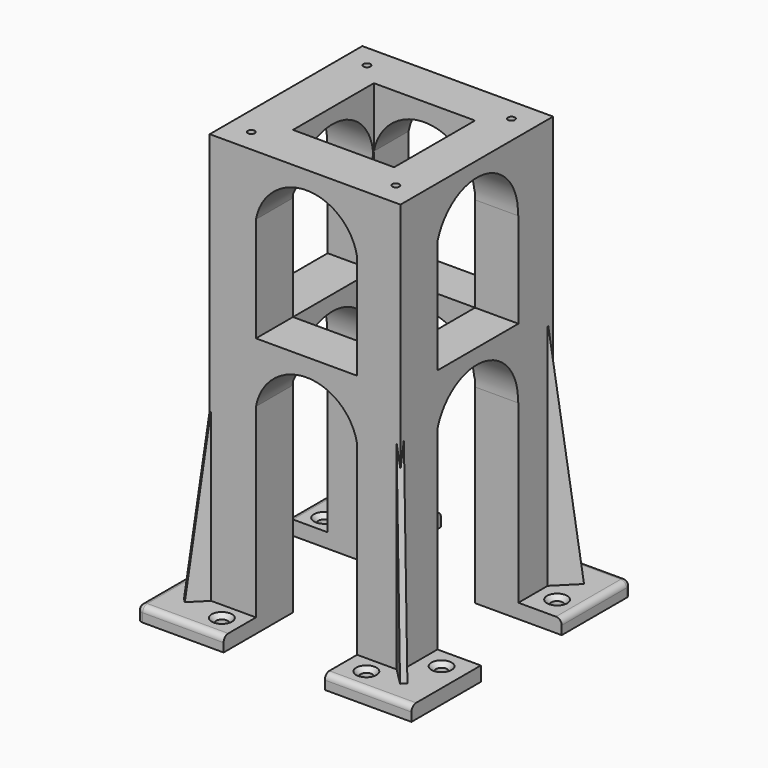
from build123d import *

# Parameters (mm, degrees)
CYLINDER058_R             = 1.2
CYLINDER058_DEPTH         = 40
CYLINDER059_R             = 1.2
CYLINDER059_DEPTH         = 40
CYLINDER060_R             = 1.2
CYLINDER060_DEPTH         = 40
CYLINDER057_R             = 1.2
CYLINDER057_DEPTH         = 40
BOX086_W                  = 35
BOX086_H                  = 35
BOX086_DEPTH              = 200
CYLINDER050_R             = 17.8
CYLINDER050_DEPTH         = 83
CYLINDER049_R             = 17.8
CYLINDER049_DEPTH         = 80
BOX081_W                  = 66
BOX081_H                  = 66
BOX081_DEPTH              = 24
BOX078_W                  = 16
BOX078_H                  = 15
BOX078_DEPTH              = 78
BOX083_W                  = 15
BOX083_H                  = 16
BOX083_DEPTH              = 78
BOX084_W                  = 16
BOX084_H                  = 16
BOX084_DEPTH              = 78
BOX082_W                  = 15
BOX082_H                  = 15
BOX082_DEPTH              = 78
BOX077_W                  = 35
BOX077_H                  = 74
BOX077_DEPTH              = 100
BOX076_W                  = 35
BOX076_H                  = 74
BOX076_DEPTH              = 100
CYLINDER045_R             = 1.2
CYLINDER045_DEPTH         = 10
CYLINDER046_R             = 1.2
CYLINDER046_DEPTH         = 10
CYLINDER047_R             = 1.2
CYLINDER047_DEPTH         = 10
CYLINDER044_R             = 1.2
CYLINDER044_DEPTH         = 10
CYLINDER037_R             = 2
CYLINDER037_DEPTH         = 10
CYLINDER036_R             = 2
CYLINDER036_DEPTH         = 10
BOX065_W                  = 5
BOX065_H                  = 10
BOX065_DEPTH              = 150
BOX065_PLACEMENT_ANGLE    = 7
BOX064_W                  = 2
BOX064_H                  = 10
BOX064_DEPTH              = 80
CUT048_PLACEMENT_ANGLE    = 45
BOX063_W                  = 30
BOX063_H                  = 30
BOX063_DEPTH              = 5
CHAMFER021_SIZE           = 1.5
CHAMFER022_SIZE           = 1.5
FILLET184_R               = 2
FILLET185_R               = 2
FILLET185_PLACEMENT_ANGLE = 90
CYLINDER039_R             = 2
CYLINDER039_DEPTH         = 10
CYLINDER038_R             = 2
CYLINDER038_DEPTH         = 10
BOX068_W                  = 5
BOX068_H                  = 10
BOX068_DEPTH              = 150
BOX068_PLACEMENT_ANGLE    = 7
BOX067_W                  = 2
BOX067_H                  = 10
BOX067_DEPTH              = 80
CUT051_PLACEMENT_ANGLE    = 45
BOX066_W                  = 30
BOX066_H                  = 30
BOX066_DEPTH              = 5
CHAMFER023_SIZE           = 1.5
CHAMFER024_SIZE           = 1.5
FILLET186_R               = 2
CYLINDER043_R             = 2
CYLINDER043_DEPTH         = 10
CYLINDER042_R             = 2
CYLINDER042_DEPTH         = 10
BOX074_W                  = 5
BOX074_H                  = 10
BOX074_DEPTH              = 150
BOX074_PLACEMENT_ANGLE    = 7
BOX073_W                  = 2
BOX073_H                  = 10
BOX073_DEPTH              = 80
CUT057_PLACEMENT_ANGLE    = 45
BOX072_W                  = 30
BOX072_H                  = 30
BOX072_DEPTH              = 5
CHAMFER027_SIZE           = 1.5
CHAMFER028_SIZE           = 1.5
FILLET025_R               = 2
FILLET026_R               = 2
FILLET026_PLACEMENT_ANGLE = 90
BOX075_W                  = 60
BOX075_H                  = 60
BOX075_DEPTH              = 10
CYLINDER041_R             = 2
CYLINDER041_DEPTH         = 10
CYLINDER040_R             = 2
CYLINDER040_DEPTH         = 10
BOX071_W                  = 5
BOX071_H                  = 10
BOX071_DEPTH              = 150
BOX071_PLACEMENT_ANGLE    = 7
BOX070_W                  = 2
BOX070_H                  = 10
BOX070_DEPTH              = 80
CUT054_PLACEMENT_ANGLE    = 45
BOX069_W                  = 30
BOX069_H                  = 30
BOX069_DEPTH              = 5
CHAMFER025_SIZE           = 1.5
CHAMFER026_SIZE           = 1.5
FILLET023_R               = 2
FILLET024_R               = 2
FILLET024_PLACEMENT_ANGLE = 180
CYLINDER035_R             = 2
CYLINDER035_DEPTH         = 10
CYLINDER034_R             = 2
CYLINDER034_DEPTH         = 10
BOX062_W                  = 5
BOX062_H                  = 10
BOX062_DEPTH              = 150
BOX062_PLACEMENT_ANGLE    = 7
BOX061_W                  = 2
BOX061_H                  = 10
BOX061_DEPTH              = 80
CUT045_PLACEMENT_ANGLE    = 45
BOX060_W                  = 30
BOX060_H                  = 30
BOX060_DEPTH              = 5
CHAMFER019_SIZE           = 1.5
CHAMFER020_SIZE           = 1.5
FILLET018_R               = 2
FILLET183_R               = 2
BOX059_W                  = 51
BOX059_H                  = 51
BOX059_DEPTH              = 10
BOX058_W                  = 35
BOX058_H                  = 100
BOX058_DEPTH              = 89
BOX057_W                  = 80
BOX057_H                  = 35
BOX057_DEPTH              = 89
BOX056_W                  = 35
BOX056_H                  = 35
BOX056_DEPTH              = 89
BOX055_W                  = 50
BOX055_H                  = 50
BOX055_DEPTH              = 8
BOX054_W                  = 66
BOX054_H                  = 66
BOX054_DEPTH              = 85
CYLINDER052_R             = 17.8
CYLINDER052_DEPTH         = 83
CYLINDER051_R             = 17.8
CYLINDER051_DEPTH         = 80
BOX085_W                  = 66
BOX085_H                  = 66
BOX085_DEPTH              = 24


with BuildPart() as cilindro058:
    # Cylinder058 → Cylinder058 (new body)
    with BuildSketch(Plane(origin=(145, 25, 130), x_dir=(1, 0, 0), z_dir=(0, 0, 1))):
        Circle(CYLINDER058_R)
    extrude(amount=CYLINDER058_DEPTH)


with BuildPart() as cilindro059:
    # Cylinder059 → Cylinder059 (new body)
    with BuildSketch(Plane(origin=(95, 25, 130), x_dir=(1, 0, 0), z_dir=(0, 0, 1))):
        Circle(CYLINDER059_R)
    extrude(amount=CYLINDER059_DEPTH)


with BuildPart() as cilindro060:
    # Cylinder060 → Cylinder060 (new body)
    with BuildSketch(Plane(origin=(145, -25, 130), x_dir=(1, 0, 0), z_dir=(0, 0, 1))):
        Circle(CYLINDER060_R)
    extrude(amount=CYLINDER060_DEPTH)


with BuildPart() as cilindro057:
    # Cylinder057 → Cylinder057 (new body)
    with BuildSketch(Plane(origin=(95, -25, 130), x_dir=(1, 0, 0), z_dir=(0, 0, 1))):
        Circle(CYLINDER057_R)
    extrude(amount=CYLINDER057_DEPTH)


with BuildPart() as cubo086:
    # Box086 → Box086 (new body)
    with BuildSketch(Plane(origin=(103, -17, 0), x_dir=(1, 0, 0), z_dir=(0, 0, 1))):
        with Locations((17.5, 17.5)):
            Rectangle(BOX086_W, BOX086_H)
    extrude(amount=BOX086_DEPTH)


with BuildPart() as cilindro050:
    # Cylinder050 → Cylinder050 (new body)
    with BuildSketch(Plane(origin=(76.5, 0, 124), x_dir=(0, 0, -1), z_dir=(1, 0, 0))):
        Circle(CYLINDER050_R)
    extrude(amount=CYLINDER050_DEPTH)


with BuildPart() as cilindro049:
    # Cylinder049 → Cylinder049 (new body)
    with BuildSketch(Plane(origin=(120.5, 39, 123), x_dir=(1, 0, 0), z_dir=(0, -1, 0))):
        Circle(CYLINDER049_R)
    extrude(amount=CYLINDER049_DEPTH)


with BuildPart() as cut070:
    # Box081 → Box081 (new body)
    with BuildSketch(Plane(origin=(87, -33, 123), x_dir=(1, 0, 0), z_dir=(0, 0, 1))):
        with Locations((33, 33)):
            Rectangle(BOX081_W, BOX081_H)
    extrude(amount=BOX081_DEPTH)

    # Cut069: cut Cilindro049
    add(cilindro049.part, mode=Mode.SUBTRACT)

    # Cut070: cut Cilindro050
    add(cilindro050.part, mode=Mode.SUBTRACT)


with BuildPart() as cubo078:
    # Box078 → Box078 (new body)
    with BuildSketch(Plane(origin=(87, 18, 66), x_dir=(1, 0, 0), z_dir=(0, 0, 1))):
        with Locations((8, 7.5)):
            Rectangle(BOX078_W, BOX078_H)
    extrude(amount=BOX078_DEPTH)


with BuildPart() as cubo083:
    # Box083 → Box083 (new body)
    with BuildSketch(Plane(origin=(138, -33, 66), x_dir=(1, 0, 0), z_dir=(0, 0, 1))):
        with Locations((7.5, 8)):
            Rectangle(BOX083_W, BOX083_H)
    extrude(amount=BOX083_DEPTH)


with BuildPart() as cubo084:
    # Box084 → Box084 (new body)
    with BuildSketch(Plane(origin=(87, -33, 66), x_dir=(1, 0, 0), z_dir=(0, 0, 1))):
        with Locations((8, 8)):
            Rectangle(BOX084_W, BOX084_H)
    extrude(amount=BOX084_DEPTH)


with BuildPart() as cubo082:
    # Box082 → Box082 (new body)
    with BuildSketch(Plane(origin=(138, 18, 66), x_dir=(1, 0, 0), z_dir=(0, 0, 1))):
        with Locations((7.5, 7.5)):
            Rectangle(BOX082_W, BOX082_H)
    extrude(amount=BOX082_DEPTH)


with BuildPart() as cubo077:
    # Box077 → Box077 (new body)
    with BuildSketch(Plane(origin=(156, -17, 0), x_dir=(0, 1, 0), z_dir=(0, 0, 1))):
        with Locations((17.5, 37)):
            Rectangle(BOX077_W, BOX077_H)
    extrude(amount=BOX077_DEPTH)


with BuildPart() as cubo076:
    # Box076 → Box076 (new body)
    with BuildSketch(Plane(origin=(103, -37, 0), x_dir=(1, 0, 0), z_dir=(0, 0, 1))):
        with Locations((17.5, 37)):
            Rectangle(BOX076_W, BOX076_H)
    extrude(amount=BOX076_DEPTH)


with BuildPart() as cilindro045:
    # Cylinder045 → Cylinder045 (new body)
    with BuildSketch(Plane(origin=(19, -19, -9), x_dir=(1, 0, 0), z_dir=(0, 0, 1))):
        Circle(CYLINDER045_R)
    extrude(amount=CYLINDER045_DEPTH)


with BuildPart() as cilindro046:
    # Cylinder046 → Cylinder046 (new body)
    with BuildSketch(Plane(origin=(19, 19, -9), x_dir=(1, 0, 0), z_dir=(0, 0, 1))):
        Circle(CYLINDER046_R)
    extrude(amount=CYLINDER046_DEPTH)


with BuildPart() as cilindro047:
    # Cylinder047 → Cylinder047 (new body)
    with BuildSketch(Plane(origin=(-19, 19, -9), x_dir=(1, 0, 0), z_dir=(0, 0, 1))):
        Circle(CYLINDER047_R)
    extrude(amount=CYLINDER047_DEPTH)


with BuildPart() as cilindro044:
    # Cylinder044 → Cylinder044 (new body)
    with BuildSketch(Plane(origin=(-19, -19, -9), x_dir=(1, 0, 0), z_dir=(0, 0, 1))):
        Circle(CYLINDER044_R)
    extrude(amount=CYLINDER044_DEPTH)


with BuildPart() as cilindro037:
    # Cylinder037 → Cylinder037 (new body)
    with BuildSketch(Plane(origin=(26, -39, -80), x_dir=(1, 0, 0), z_dir=(0, 0, 1))):
        Circle(CYLINDER037_R)
    extrude(amount=CYLINDER037_DEPTH)


with BuildPart() as cilindro036:
    # Cylinder036 → Cylinder036 (new body)
    with BuildSketch(Plane(origin=(40, -24, -80), x_dir=(1, 0, 0), z_dir=(0, 0, 1))):
        Circle(CYLINDER036_R)
    extrude(amount=CYLINDER036_DEPTH)


with BuildPart() as cubo065:
    # Box065 → Box065 (new body)
    with BuildSketch(Plane.XY):
        with Locations((2.5, 5)):
            Rectangle(BOX065_W, BOX065_H)
    extrude(amount=BOX065_DEPTH)


with BuildPart() as cubo065_1:
    # Box065 placement: moved
    add(cubo065.part.moved(Location((39, -52.5, -100))).rotate(Axis((39, -52.5, -100), (-1, 0, 0)), BOX065_PLACEMENT_ANGLE))


with BuildPart() as cut048:
    # Box064 → Box064 (new body)
    with BuildSketch(Plane(origin=(39, -39, -73), x_dir=(1, 0, 0), z_dir=(0, 0, 1))):
        with Locations((1, 5)):
            Rectangle(BOX064_W, BOX064_H)
    extrude(amount=BOX064_DEPTH)

    # Cut048: cut Cubo065
    add(cubo065_1.part, mode=Mode.SUBTRACT)


with BuildPart() as cut048_1:
    # Cut048 placement: moved
    add(cut048.part.moved(Location((-17.5, -39, 0))).rotate(Axis((-17.5, -39, 0), (0, 0, 1)), CUT048_PLACEMENT_ANGLE))


with BuildPart() as fillet185:
    # Box063 → Box063 (new body)
    with BuildSketch(Plane(origin=(18, -47, -77), x_dir=(1, 0, 0), z_dir=(0, 0, 1))):
        with Locations((15, 15)):
            Rectangle(BOX063_W, BOX063_H)
    extrude(amount=BOX063_DEPTH)

    # Fusion046: union Cut048
    add(cut048_1.part)

    # Cut049: cut Cilindro036
    add(cilindro036.part, mode=Mode.SUBTRACT)

    # Cut050: cut Cilindro037
    add(cilindro037.part, mode=Mode.SUBTRACT)

    # Chamfer021
    chamfer021_edges = [fillet185.edges().sort_by_distance(p)[0] for p in [
        (24, -39, -72),
    ]]
    chamfer(chamfer021_edges, length=CHAMFER021_SIZE)

    # Chamfer022
    chamfer022_edges = [fillet185.edges().sort_by_distance(p)[0] for p in [
        (38, -24, -72),
    ]]
    chamfer(chamfer022_edges, length=CHAMFER022_SIZE)

    # Fillet184
    fillet184_edges = [fillet185.edges().sort_by_distance(p)[0] for p in [
        (33, -47, -72),
    ]]
    fillet(fillet184_edges, radius=FILLET184_R)

    # Fillet185
    fillet185_edges = [fillet185.edges().sort_by_distance(p)[0] for p in [
        (48, -31, -72),
    ]]
    fillet(fillet185_edges, radius=FILLET185_R)


with BuildPart() as fillet185_1:
    # Fillet185 placement: moved
    add(fillet185.part.moved(Location((1, 0, 0))).rotate(Axis((1, 0, 0), (0, 0, 1)), FILLET185_PLACEMENT_ANGLE))


with BuildPart() as cilindro039:
    # Cylinder039 → Cylinder039 (new body)
    with BuildSketch(Plane(origin=(26, -39, -80), x_dir=(1, 0, 0), z_dir=(0, 0, 1))):
        Circle(CYLINDER039_R)
    extrude(amount=CYLINDER039_DEPTH)


with BuildPart() as cilindro038:
    # Cylinder038 → Cylinder038 (new body)
    with BuildSketch(Plane(origin=(40, -24, -80), x_dir=(1, 0, 0), z_dir=(0, 0, 1))):
        Circle(CYLINDER038_R)
    extrude(amount=CYLINDER038_DEPTH)


with BuildPart() as cubo068:
    # Box068 → Box068 (new body)
    with BuildSketch(Plane.XY):
        with Locations((2.5, 5)):
            Rectangle(BOX068_W, BOX068_H)
    extrude(amount=BOX068_DEPTH)


with BuildPart() as cubo068_1:
    # Box068 placement: moved
    add(cubo068.part.moved(Location((39, -52.5, -100))).rotate(Axis((39, -52.5, -100), (-1, 0, 0)), BOX068_PLACEMENT_ANGLE))


with BuildPart() as cut051:
    # Box067 → Box067 (new body)
    with BuildSketch(Plane(origin=(39, -39, -73), x_dir=(1, 0, 0), z_dir=(0, 0, 1))):
        with Locations((1, 5)):
            Rectangle(BOX067_W, BOX067_H)
    extrude(amount=BOX067_DEPTH)

    # Cut051: cut Cubo068
    add(cubo068_1.part, mode=Mode.SUBTRACT)


with BuildPart() as cut051_1:
    # Cut051 placement: moved
    add(cut051.part.moved(Location((-17.5, -39, 0))).rotate(Axis((-17.5, -39, 0), (0, 0, 1)), CUT051_PLACEMENT_ANGLE))


with BuildPart() as fillet186:
    # Box066 → Box066 (new body)
    with BuildSketch(Plane(origin=(18, -47, -77), x_dir=(1, 0, 0), z_dir=(0, 0, 1))):
        with Locations((15, 15)):
            Rectangle(BOX066_W, BOX066_H)
    extrude(amount=BOX066_DEPTH)

    # Fusion047: union Cut051
    add(cut051_1.part)

    # Cut052: cut Cilindro038
    add(cilindro038.part, mode=Mode.SUBTRACT)

    # Cut053: cut Cilindro039
    add(cilindro039.part, mode=Mode.SUBTRACT)

    # Chamfer023
    chamfer023_edges = [fillet186.edges().sort_by_distance(p)[0] for p in [
        (24, -39, -72),
    ]]
    chamfer(chamfer023_edges, length=CHAMFER023_SIZE)

    # Chamfer024
    chamfer024_edges = [fillet186.edges().sort_by_distance(p)[0] for p in [
        (38, -24, -72),
    ]]
    chamfer(chamfer024_edges, length=CHAMFER024_SIZE)

    # Fillet186
    fillet186_edges = [fillet186.edges().sort_by_distance(p)[0] for p in [
        (33, -47, -72),
    ]]
    fillet(fillet186_edges, radius=FILLET186_R)


with BuildPart() as cilindro043:
    # Cylinder043 → Cylinder043 (new body)
    with BuildSketch(Plane(origin=(26, -39, -80), x_dir=(1, 0, 0), z_dir=(0, 0, 1))):
        Circle(CYLINDER043_R)
    extrude(amount=CYLINDER043_DEPTH)


with BuildPart() as cilindro042:
    # Cylinder042 → Cylinder042 (new body)
    with BuildSketch(Plane(origin=(40, -24, -80), x_dir=(1, 0, 0), z_dir=(0, 0, 1))):
        Circle(CYLINDER042_R)
    extrude(amount=CYLINDER042_DEPTH)


with BuildPart() as cubo074:
    # Box074 → Box074 (new body)
    with BuildSketch(Plane.XY):
        with Locations((2.5, 5)):
            Rectangle(BOX074_W, BOX074_H)
    extrude(amount=BOX074_DEPTH)


with BuildPart() as cubo074_1:
    # Box074 placement: moved
    add(cubo074.part.moved(Location((39, -52.5, -100))).rotate(Axis((39, -52.5, -100), (-1, 0, 0)), BOX074_PLACEMENT_ANGLE))


with BuildPart() as cut057:
    # Box073 → Box073 (new body)
    with BuildSketch(Plane(origin=(39, -39, -73), x_dir=(1, 0, 0), z_dir=(0, 0, 1))):
        with Locations((1, 5)):
            Rectangle(BOX073_W, BOX073_H)
    extrude(amount=BOX073_DEPTH)

    # Cut057: cut Cubo074
    add(cubo074_1.part, mode=Mode.SUBTRACT)


with BuildPart() as cut057_1:
    # Cut057 placement: moved
    add(cut057.part.moved(Location((-17.5, -39, 0))).rotate(Axis((-17.5, -39, 0), (0, 0, 1)), CUT057_PLACEMENT_ANGLE))


with BuildPart() as fillet026:
    # Box072 → Box072 (new body)
    with BuildSketch(Plane(origin=(18, -47, -77), x_dir=(1, 0, 0), z_dir=(0, 0, 1))):
        with Locations((15, 15)):
            Rectangle(BOX072_W, BOX072_H)
    extrude(amount=BOX072_DEPTH)

    # Fusion049: union Cut057
    add(cut057_1.part)

    # Cut058: cut Cilindro042
    add(cilindro042.part, mode=Mode.SUBTRACT)

    # Cut059: cut Cilindro043
    add(cilindro043.part, mode=Mode.SUBTRACT)

    # Chamfer027
    chamfer027_edges = [fillet026.edges().sort_by_distance(p)[0] for p in [
        (24, -39, -72),
    ]]
    chamfer(chamfer027_edges, length=CHAMFER027_SIZE)

    # Chamfer028
    chamfer028_edges = [fillet026.edges().sort_by_distance(p)[0] for p in [
        (38, -24, -72),
    ]]
    chamfer(chamfer028_edges, length=CHAMFER028_SIZE)

    # Fillet025
    fillet025_edges = [fillet026.edges().sort_by_distance(p)[0] for p in [
        (33, -47, -72),
    ]]
    fillet(fillet025_edges, radius=FILLET025_R)

    # Fillet026
    fillet026_edges = [fillet026.edges().sort_by_distance(p)[0] for p in [
        (48, -31, -72),
    ]]
    fillet(fillet026_edges, radius=FILLET026_R)


with BuildPart() as fillet026_1:
    # Fillet026 placement: moved
    add(fillet026.part.moved(Location((0, 1, 0))).rotate(Axis((0, 1, 0), (0, 0, -1)), FILLET026_PLACEMENT_ANGLE))


with BuildPart() as cubo075:
    # Box075 → Box075 (new body)
    with BuildSketch(Plane(origin=(-49, -42, -80), x_dir=(1, 0, 0), z_dir=(0, 0, 1))):
        with Locations((30, 30)):
            Rectangle(BOX075_W, BOX075_H)
    extrude(amount=BOX075_DEPTH)


with BuildPart() as cilindro041:
    # Cylinder041 → Cylinder041 (new body)
    with BuildSketch(Plane(origin=(26, -39, -80), x_dir=(1, 0, 0), z_dir=(0, 0, 1))):
        Circle(CYLINDER041_R)
    extrude(amount=CYLINDER041_DEPTH)


with BuildPart() as cilindro040:
    # Cylinder040 → Cylinder040 (new body)
    with BuildSketch(Plane(origin=(40, -24, -80), x_dir=(1, 0, 0), z_dir=(0, 0, 1))):
        Circle(CYLINDER040_R)
    extrude(amount=CYLINDER040_DEPTH)


with BuildPart() as cubo071:
    # Box071 → Box071 (new body)
    with BuildSketch(Plane.XY):
        with Locations((2.5, 5)):
            Rectangle(BOX071_W, BOX071_H)
    extrude(amount=BOX071_DEPTH)


with BuildPart() as cubo071_1:
    # Box071 placement: moved
    add(cubo071.part.moved(Location((39, -52.5, -100))).rotate(Axis((39, -52.5, -100), (-1, 0, 0)), BOX071_PLACEMENT_ANGLE))


with BuildPart() as cut054:
    # Box070 → Box070 (new body)
    with BuildSketch(Plane(origin=(39, -39, -73), x_dir=(1, 0, 0), z_dir=(0, 0, 1))):
        with Locations((1, 5)):
            Rectangle(BOX070_W, BOX070_H)
    extrude(amount=BOX070_DEPTH)

    # Cut054: cut Cubo071
    add(cubo071_1.part, mode=Mode.SUBTRACT)


with BuildPart() as cut054_1:
    # Cut054 placement: moved
    add(cut054.part.moved(Location((-17.5, -39, 0))).rotate(Axis((-17.5, -39, 0), (0, 0, 1)), CUT054_PLACEMENT_ANGLE))


with BuildPart() as cut060:
    # Box069 → Box069 (new body)
    with BuildSketch(Plane(origin=(18, -47, -77), x_dir=(1, 0, 0), z_dir=(0, 0, 1))):
        with Locations((15, 15)):
            Rectangle(BOX069_W, BOX069_H)
    extrude(amount=BOX069_DEPTH)

    # Fusion048: union Cut054
    add(cut054_1.part)

    # Cut055: cut Cilindro040
    add(cilindro040.part, mode=Mode.SUBTRACT)

    # Cut056: cut Cilindro041
    add(cilindro041.part, mode=Mode.SUBTRACT)

    # Chamfer025
    chamfer025_edges = [cut060.edges().sort_by_distance(p)[0] for p in [
        (24, -39, -72),
    ]]
    chamfer(chamfer025_edges, length=CHAMFER025_SIZE)

    # Chamfer026
    chamfer026_edges = [cut060.edges().sort_by_distance(p)[0] for p in [
        (38, -24, -72),
    ]]
    chamfer(chamfer026_edges, length=CHAMFER026_SIZE)

    # Fillet023
    fillet023_edges = [cut060.edges().sort_by_distance(p)[0] for p in [
        (33, -47, -72),
    ]]
    fillet(fillet023_edges, radius=FILLET023_R)

    # Fillet024
    fillet024_edges = [cut060.edges().sort_by_distance(p)[0] for p in [
        (48, -31, -72),
    ]]
    fillet(fillet024_edges, radius=FILLET024_R)


with BuildPart() as cut060_1:
    # Fillet024 placement: moved
    add(cut060.part.moved(Location((1, 0, 0))).rotate(Axis((1, 0, 0), (0, 0, 1)), FILLET024_PLACEMENT_ANGLE))

    # Cut060: cut Cubo075
    add(cubo075.part, mode=Mode.SUBTRACT)


with BuildPart() as cilindro035:
    # Cylinder035 → Cylinder035 (new body)
    with BuildSketch(Plane(origin=(26, -39, -80), x_dir=(1, 0, 0), z_dir=(0, 0, 1))):
        Circle(CYLINDER035_R)
    extrude(amount=CYLINDER035_DEPTH)


with BuildPart() as cilindro034:
    # Cylinder034 → Cylinder034 (new body)
    with BuildSketch(Plane(origin=(40, -24, -80), x_dir=(1, 0, 0), z_dir=(0, 0, 1))):
        Circle(CYLINDER034_R)
    extrude(amount=CYLINDER034_DEPTH)


with BuildPart() as cubo062:
    # Box062 → Box062 (new body)
    with BuildSketch(Plane.XY):
        with Locations((2.5, 5)):
            Rectangle(BOX062_W, BOX062_H)
    extrude(amount=BOX062_DEPTH)


with BuildPart() as cubo062_1:
    # Box062 placement: moved
    add(cubo062.part.moved(Location((39, -52.5, -100))).rotate(Axis((39, -52.5, -100), (-1, 0, 0)), BOX062_PLACEMENT_ANGLE))


with BuildPart() as cut045:
    # Box061 → Box061 (new body)
    with BuildSketch(Plane(origin=(39, -39, -73), x_dir=(1, 0, 0), z_dir=(0, 0, 1))):
        with Locations((1, 5)):
            Rectangle(BOX061_W, BOX061_H)
    extrude(amount=BOX061_DEPTH)

    # Cut045: cut Cubo062
    add(cubo062_1.part, mode=Mode.SUBTRACT)


with BuildPart() as cut045_1:
    # Cut045 placement: moved
    add(cut045.part.moved(Location((-17.5, -39, 0))).rotate(Axis((-17.5, -39, 0), (0, 0, 1)), CUT045_PLACEMENT_ANGLE))


with BuildPart() as fillet183:
    # Box060 → Box060 (new body)
    with BuildSketch(Plane(origin=(18, -47, -77), x_dir=(1, 0, 0), z_dir=(0, 0, 1))):
        with Locations((15, 15)):
            Rectangle(BOX060_W, BOX060_H)
    extrude(amount=BOX060_DEPTH)

    # Fusion045: union Cut045
    add(cut045_1.part)

    # Cut046: cut Cilindro034
    add(cilindro034.part, mode=Mode.SUBTRACT)

    # Cut047: cut Cilindro035
    add(cilindro035.part, mode=Mode.SUBTRACT)

    # Chamfer019
    chamfer019_edges = [fillet183.edges().sort_by_distance(p)[0] for p in [
        (24, -39, -72),
    ]]
    chamfer(chamfer019_edges, length=CHAMFER019_SIZE)

    # Chamfer020
    chamfer020_edges = [fillet183.edges().sort_by_distance(p)[0] for p in [
        (38, -24, -72),
    ]]
    chamfer(chamfer020_edges, length=CHAMFER020_SIZE)

    # Fillet018
    fillet018_edges = [fillet183.edges().sort_by_distance(p)[0] for p in [
        (33, -47, -72),
    ]]
    fillet(fillet018_edges, radius=FILLET018_R)

    # Fillet183
    fillet183_edges = [fillet183.edges().sort_by_distance(p)[0] for p in [
        (48, -31, -72),
    ]]
    fillet(fillet183_edges, radius=FILLET183_R)


with BuildPart() as cubo059:
    # Box059 → Box059 (new body)
    with BuildSketch(Plane(origin=(-25, -25.5, 0), x_dir=(1, 0, 0), z_dir=(0, 0, 1))):
        with Locations((25.5, 25.5)):
            Rectangle(BOX059_W, BOX059_H)
    extrude(amount=BOX059_DEPTH)


with BuildPart() as cubo058:
    # Box058 → Box058 (new body)
    with BuildSketch(Plane(origin=(-17, -40, -100), x_dir=(1, 0, 0), z_dir=(0, 0, 1))):
        with Locations((17.5, 50)):
            Rectangle(BOX058_W, BOX058_H)
    extrude(amount=BOX058_DEPTH)


with BuildPart() as cubo057:
    # Box057 → Box057 (new body)
    with BuildSketch(Plane(origin=(-39, -17, -100), x_dir=(1, 0, 0), z_dir=(0, 0, 1))):
        with Locations((40, 17.5)):
            Rectangle(BOX057_W, BOX057_H)
    extrude(amount=BOX057_DEPTH)


with BuildPart() as cubo056:
    # Box056 → Box056 (new body)
    with BuildSketch(Plane(origin=(-17, -17, -81), x_dir=(1, 0, 0), z_dir=(0, 0, 1))):
        with Locations((17.5, 17.5)):
            Rectangle(BOX056_W, BOX056_H)
    extrude(amount=BOX056_DEPTH)


with BuildPart() as cubo055:
    # Box055 → Box055 (new body)
    with BuildSketch(Plane(origin=(-25, -25, 0), x_dir=(1, 0, 0), z_dir=(0, 0, 1))):
        with Locations((25, 25)):
            Rectangle(BOX055_W, BOX055_H)
    extrude(amount=BOX055_DEPTH)


with BuildPart() as fusion059:
    # Box054 → Box054 (new body)
    with BuildSketch(Plane(origin=(-33, -33, -77), x_dir=(1, 0, 0), z_dir=(0, 0, 1))):
        with Locations((33, 33)):
            Rectangle(BOX054_W, BOX054_H)
    extrude(amount=BOX054_DEPTH)

    # Cut040: cut Cubo055
    add(cubo055.part, mode=Mode.SUBTRACT)

    # Cut041: cut Cubo056
    add(cubo056.part, mode=Mode.SUBTRACT)

    # Cut042: cut Cubo057
    add(cubo057.part, mode=Mode.SUBTRACT)

    # Cut043: cut Cubo058
    add(cubo058.part, mode=Mode.SUBTRACT)

    # Cut044: cut Cubo059
    add(cubo059.part, mode=Mode.SUBTRACT)

    # Fusion050: union Fillet183
    add(fillet183.part)

    # Fusion051: union Cut060
    add(cut060_1.part)

    # Fusion052: union Fillet026
    add(fillet026_1.part)

    # Fusion053: union Fillet186
    add(fillet186.part)

    # Fusion054: union Fillet185
    add(fillet185_1.part)

    # Cut061: cut Cilindro044
    add(cilindro044.part, mode=Mode.SUBTRACT)

    # Cut062: cut Cilindro047
    add(cilindro047.part, mode=Mode.SUBTRACT)

    # Cut063: cut Cilindro046
    add(cilindro046.part, mode=Mode.SUBTRACT)

    # Cut064: cut Cilindro045
    add(cilindro045.part, mode=Mode.SUBTRACT)


with BuildPart() as fusion059_1:
    # Cut064 placement: moved
    add(fusion059.part.moved(Location((120, 0, 77))))

    # Cut065: cut Cubo076
    add(cubo076.part, mode=Mode.SUBTRACT)

    # Cut066: cut Cubo077
    add(cubo077.part, mode=Mode.SUBTRACT)

    # Fusion055: union Cubo082
    add(cubo082.part)

    # Fusion056: union Cubo084
    add(cubo084.part)

    # Fusion057: union Cubo083
    add(cubo083.part)

    # Fusion058: union Cubo078
    add(cubo078.part)

    # Fusion059: union Cut070
    add(cut070.part)


with BuildPart() as cilindro052:
    # Cylinder052 → Cylinder052 (new body)
    with BuildSketch(Plane(origin=(76.5, 0, 124), x_dir=(0, 0, -1), z_dir=(1, 0, 0))):
        Circle(CYLINDER052_R)
    extrude(amount=CYLINDER052_DEPTH)


with BuildPart() as cilindro051:
    # Cylinder051 → Cylinder051 (new body)
    with BuildSketch(Plane(origin=(120.5, 39, 123), x_dir=(1, 0, 0), z_dir=(0, -1, 0))):
        Circle(CYLINDER051_R)
    extrude(amount=CYLINDER051_DEPTH)


with BuildPart() as obj1:
    # Box085 → Box085 (new body)
    with BuildSketch(Plane(origin=(87, -33, 123), x_dir=(1, 0, 0), z_dir=(0, 0, 1))):
        with Locations((33, 33)):
            Rectangle(BOX085_W, BOX085_H)
    extrude(amount=BOX085_DEPTH)

    # Cut071: cut Cilindro051
    add(cilindro051.part, mode=Mode.SUBTRACT)

    # Cut072: cut Cilindro052
    add(cilindro052.part, mode=Mode.SUBTRACT)


with BuildPart() as obj1_1:
    # Cut072 placement: moved
    add(obj1.part.moved(Location((0, 0, -57))))

    # Fusion060: union Fusion059
    add(fusion059_1.part)

    # Cut073: cut Cubo086
    add(cubo086.part, mode=Mode.SUBTRACT)

    # Cut081: cut Cilindro057
    add(cilindro057.part, mode=Mode.SUBTRACT)

    # Cut082: cut Cilindro060
    add(cilindro060.part, mode=Mode.SUBTRACT)

    # Cut083: cut Cilindro059
    add(cilindro059.part, mode=Mode.SUBTRACT)

    # Cut084: cut Cilindro058
    add(cilindro058.part, mode=Mode.SUBTRACT)


with BuildPart() as obj1_2:
    # Cut084 placement: moved
    add(obj1_1.part.moved(Location((-120, 0, -55))))


solid = obj1_2.part
